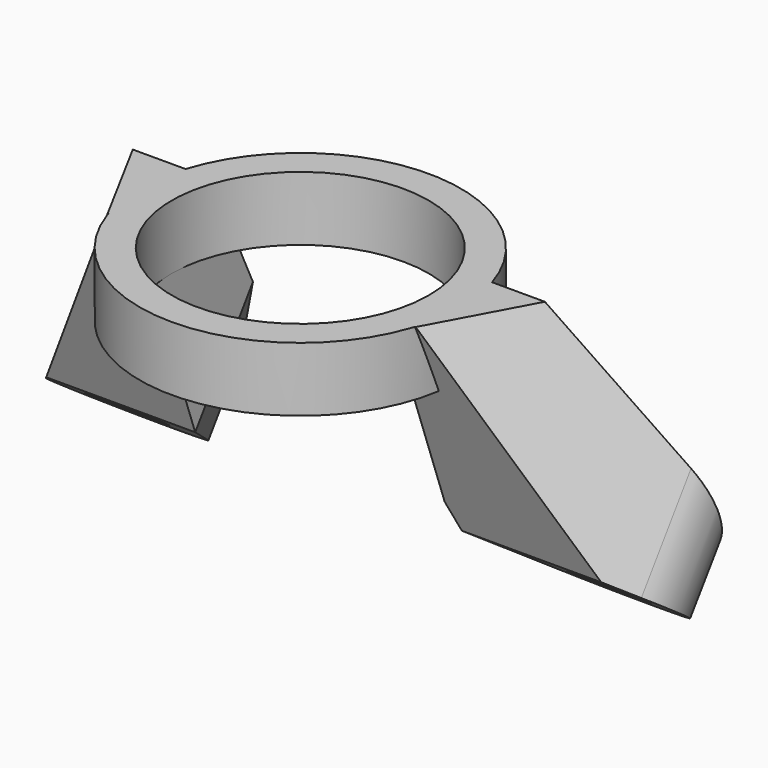
from build123d import *

# Parameters (mm, degrees)
SKETCH_R             = 10
PAD_DEPTH            = 4
PAD001_DEPTH         = 19.225
PAD001_DEPTH_BACK    = 19.225
SKETCH002_W          = 16
SKETCH002_H          = 14.708531
POCKET_DEPTH         = 100
POCKET_DEPTH_BACK    = 100
SKETCH005_R          = 2.225
POCKET002_DEPTH      = 100
POCKET002_DEPTH_BACK = 100
SKETCH006_R          = 8
POCKET003_DEPTH      = 18.2946687632


with BuildPart() as part:
    # Sketch → Pad (new body)
    with BuildSketch(Plane.XY):
        Circle(SKETCH_R)
    extrude(amount=PAD_DEPTH)

    # Sketch001 → Pad001 (join, two sides)
    with BuildSketch(Plane.YZ) as pad001_sk:
        Polygon((-3, 4), (3, 4), (10.4649812857, -11.8362126303), (8.7442519767, -14.2936687632), (1.8224172024, -9.446947876), align=None)
    extrude(amount=PAD001_DEPTH)
    extrude(pad001_sk.sketch, amount=-PAD001_DEPTH_BACK)

    # Sketch002 → Pocket (cut, two sides)
    with BuildSketch(Plane.XZ) as pocket_sk:
        with Locations((0, -7.3542655)):
            Rectangle(SKETCH002_W, SKETCH002_H)
    extrude(amount=-POCKET_DEPTH, mode=Mode.SUBTRACT)
    extrude(pocket_sk.sketch, amount=POCKET_DEPTH_BACK, mode=Mode.SUBTRACT)

    # Sketch005 (on Face5 of Pocket) → Pocket002 (cut, two sides)
    with BuildSketch(Plane(origin=(0, -3.8390566992, -5.4827411727), x_dir=(1, 0, 0), z_dir=(0, -0.5735764364, -0.8191520443))) as pocket002_sk:
        with Locations((-15, -11.136383474)):
            Circle(SKETCH005_R)
        with Locations((15, -11.136383474)):
            Circle(SKETCH005_R)
        with BuildLine():
            ThreePointArc((-18.5274170715, -8.8108827099), (-17.1496679718, -14.7736286694), (-11.2616841653, -13.1050428452))
            Line((-11.2616841653, -13.1050428452), (-8, -6.911383474))
            Line((-8, -6.911383474), (-8, -15.402658))
            Line((-8, -15.402658), (8, -15.402658))
            Line((8, -15.402658), (8, -5.4984980053))
            Line((11.1141301433, -12.7948889631), (8, -5.4984980053))
            ThreePointArc((11.1141301433, -12.7948889631), (17.0000496384, -14.8579995805), (18.5274170715, -8.8108827099))
            Line((9.4653449469, 4.9348482776), (18.5274170715, -8.8108827099))
            Line((9.4653449469, 4.9348482776), (21.017342039, 4.9348482776))
            Line((21.017342039, -22.489232832), (21.017342039, 4.9348482776))
            Line((-21.017342039, -22.489232832), (21.017342039, -22.489232832))
            Line((-21.017342039, 4.9348482776), (-21.017342039, -22.489232832))
            Line((-21.017342039, 4.9348482776), (-9.4653449469, 4.9348482776))
            Line((-9.4653449469, 4.9348482776), (-18.5274170715, -8.8108827099))
        make_face()
    extrude(amount=-POCKET002_DEPTH, mode=Mode.SUBTRACT)
    extrude(pocket002_sk.sketch, amount=POCKET002_DEPTH_BACK, mode=Mode.SUBTRACT)

    # Sketch006 (on Face23 of Pocket002) → Pocket003 (cut, through all)
    with BuildSketch(Plane.XY.offset(4)):
        Circle(SKETCH006_R)
    extrude(amount=-POCKET003_DEPTH, mode=Mode.SUBTRACT)


solid = part.part
